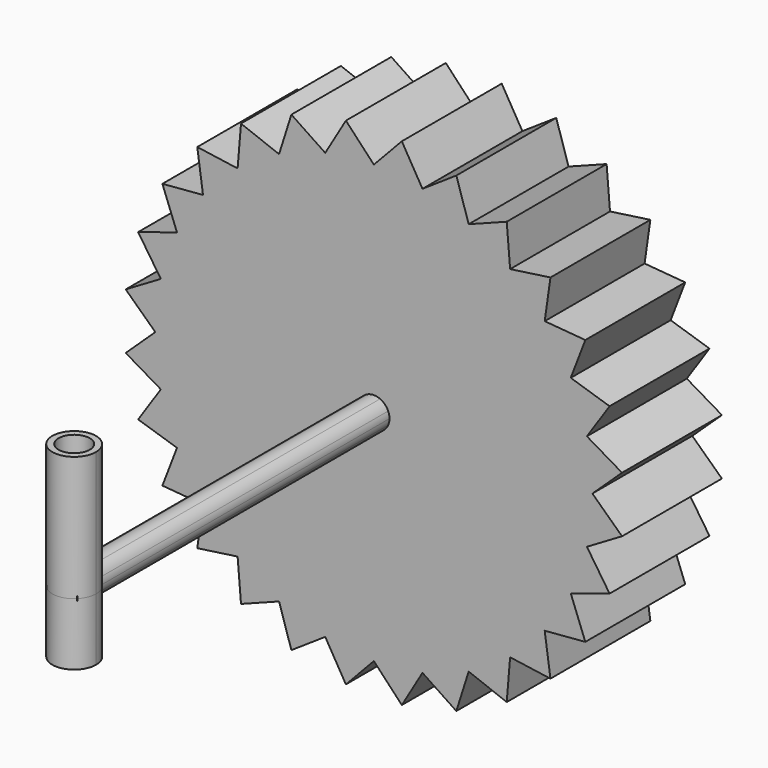
from build123d import *

# Parameters (mm, degrees)
F1_DEPTH      = 5.08
F3_W          = 0.508
F3_H          = 0.508
F4_DEPTH      = 15.875
F6_DEPTH      = 5.08
F6_DEPTH_BACK = 2.54
F7_R          = 0.635
F8_DEPTH      = 15.1771160525


with BuildPart() as f1:
    # F0 (on Front) → F1 (new body)
    with BuildSketch(Plane.XZ):
        with BuildLine():
            Line((-4.7297651602, 7.5273781311), (0, 0))
            Line((0, 0), (-3.8572264408, 8.0096132357))
            ThreePointArc((-3.8572264408, 8.0096132357), (-4.3002609064, 7.7807362208), (-4.7297651602, 7.5273781311))
        make_face()
        with BuildLine():
            Line((-5.5428243385, 6.9504818791), (0, 0))
            Line((0, 0), (-4.7297651602, 7.5273781311))
            ThreePointArc((-4.7297651602, 7.5273781311), (-5.144387823, 7.250336125), (-5.5428243385, 6.9504818791))
        make_face()
        with BuildLine():
            Line((-5.4054458974, 8.6027178642), (-5.5428243385, 6.9504818791))
            ThreePointArc((-5.5428243385, 6.9504818791), (-5.144387823, 7.250336125), (-4.7297651602, 7.5273781311))
            Line((-4.7297651602, 7.5273781311), (-5.4054458974, 8.6027178642))
        make_face()
        with BuildLine():
            Line((-5.4054458974, 8.6027178642), (-4.7297651602, 7.5273781311))
            ThreePointArc((-4.7297651602, 7.5273781311), (-4.3002609064, 7.7807362208), (-3.8572264408, 8.0096132357))
            Line((-3.8572264408, 8.0096132357), (-5.4054458974, 8.6027178642))
        make_face()
        with BuildLine():
            Line((-3.3556352695, 9.5898546359), (-3.8572264408, 8.0096132357))
            ThreePointArc((-3.8572264408, 8.0096132357), (-3.4020557137, 8.213289044), (-2.9361808608, 8.3911228064))
            Line((-2.9361808608, 8.3911228064), (-3.3556352695, 9.5898546359))
        make_face()
        with BuildLine():
            Line((-3.3556352695, 9.5898546359), (-2.9361808608, 8.3911228064))
            ThreePointArc((-2.9361808608, 8.3911228064), (-2.4610676966, 8.5425549921), (-1.9782111029, 8.6671091393))
            Line((-1.9782111029, 8.6671091393), (-3.3556352695, 9.5898546359))
        make_face()
        with BuildLine():
            Line((-2.9361808608, 8.3911228064), (0, 0))
            Line((0, 0), (-1.9782111029, 8.6671091393))
            ThreePointArc((-1.9782111029, 8.6671091393), (-2.4610676966, 8.5425549921), (-2.9361808608, 8.3911228064))
        make_face()
        with BuildLine():
            Line((-3.8572264408, 8.0096132357), (0, 0))
            Line((0, 0), (-2.9361808608, 8.3911228064))
            ThreePointArc((-2.9361808608, 8.3911228064), (-3.4020557137, 8.213289044), (-3.8572264408, 8.0096132357))
        make_face()
        with BuildLine():
            Line((-0.9953641926, 8.834101546), (0, 0))
            Line((0, 0), (0, 8.89))
            ThreePointArc((0, 8.89), (-0.4984662759, 8.8760143855), (-0.9953641926, 8.834101546))
        make_face()
        with BuildLine():
            ThreePointArc((-0.9953641926, 8.834101546), (-0.4984662759, 8.8760143855), (0, 8.89))
            Line((0, 8.89), (-1.1375590772, 10.0961160525))
            Line((-1.1375590772, 10.0961160525), (-0.9953641926, 8.834101546))
        make_face()
        with BuildLine():
            Line((-1.1375590772, 10.0961160525), (-1.9782111029, 8.6671091393))
            ThreePointArc((-1.9782111029, 8.6671091393), (-1.4891303252, 8.7643933546), (-0.9953641926, 8.834101546))
            Line((-0.9953641926, 8.834101546), (-1.1375590772, 10.0961160525))
        make_face()
        with BuildLine():
            Line((-1.9782111029, 8.6671091393), (0, 0))
            Line((0, 0), (-0.9953641926, 8.834101546))
            ThreePointArc((-0.9953641926, 8.834101546), (-1.4891303252, 8.7643933546), (-1.9782111029, 8.6671091393))
        make_face()
        with BuildLine():
            Line((-6.2861792847, 6.2861792847), (0, 0))
            Line((0, 0), (-5.5428243385, 6.9504818791))
            ThreePointArc((-5.5428243385, 6.9504818791), (-5.923821078, 6.6287588458), (-6.2861792847, 6.2861792847))
        make_face()
        with BuildLine():
            Line((-7.1842048969, 7.1842048969), (-6.2861792847, 6.2861792847))
            ThreePointArc((-6.2861792847, 6.2861792847), (-5.923821078, 6.6287588458), (-5.5428243385, 6.9504818791))
            Line((-5.5428243385, 6.9504818791), (-7.1842048969, 7.1842048969))
        make_face()
        with BuildLine():
            Line((-6.9504818791, 5.5428243385), (0, 0))
            Line((0, 0), (-6.2861792847, 6.2861792847))
            ThreePointArc((-6.2861792847, 6.2861792847), (-6.6287588458, 5.923821078), (-6.9504818791, 5.5428243385))
        make_face()
        with BuildLine():
            Line((-7.1842048969, 7.1842048969), (-6.9504818791, 5.5428243385))
            ThreePointArc((-6.9504818791, 5.5428243385), (-6.6287588458, 5.923821078), (-6.2861792847, 6.2861792847))
            Line((-6.2861792847, 6.2861792847), (-7.1842048969, 7.1842048969))
        make_face()
        with BuildLine():
            Line((-7.5273781311, 4.7297651602), (0, 0))
            Line((0, 0), (-6.9504818791, 5.5428243385))
            ThreePointArc((-6.9504818791, 5.5428243385), (-7.250336125, 5.144387823), (-7.5273781311, 4.7297651602))
        make_face()
        with BuildLine():
            Line((-8.6027178642, 5.4054458974), (-7.5273781311, 4.7297651602))
            ThreePointArc((-7.5273781311, 4.7297651602), (-7.250336125, 5.144387823), (-6.9504818791, 5.5428243385))
            Line((-6.9504818791, 5.5428243385), (-8.6027178642, 5.4054458974))
        make_face()
        with BuildLine():
            Line((-8.6027178642, 5.4054458974), (-8.0096132357, 3.8572264408))
            ThreePointArc((-8.0096132357, 3.8572264408), (-7.7807362208, 4.3002609064), (-7.5273781311, 4.7297651602))
            Line((-7.5273781311, 4.7297651602), (-8.6027178642, 5.4054458974))
        make_face()
        with BuildLine():
            Line((-8.0096132357, 3.8572264408), (0, 0))
            Line((0, 0), (-7.5273781311, 4.7297651602))
            ThreePointArc((-7.5273781311, 4.7297651602), (-7.7807362208, 4.3002609064), (-8.0096132357, 3.8572264408))
        make_face()
        with BuildLine():
            Line((-8.3911228064, 2.9361808608), (0, 0))
            Line((0, 0), (-8.0096132357, 3.8572264408))
            ThreePointArc((-8.0096132357, 3.8572264408), (-8.213289044, 3.4020557137), (-8.3911228064, 2.9361808608))
        make_face()
        with BuildLine():
            Line((-9.5898546359, 3.3556352695), (-8.3911228064, 2.9361808608))
            ThreePointArc((-8.3911228064, 2.9361808608), (-8.213289044, 3.4020557137), (-8.0096132357, 3.8572264408))
            Line((-8.0096132357, 3.8572264408), (-9.5898546359, 3.3556352695))
        make_face()
        with BuildLine():
            Line((-9.5898546359, 3.3556352695), (-8.6671091393, 1.9782111029))
            ThreePointArc((-8.6671091393, 1.9782111029), (-8.5425549921, 2.4610676966), (-8.3911228064, 2.9361808608))
            Line((-8.3911228064, 2.9361808608), (-9.5898546359, 3.3556352695))
        make_face()
        with BuildLine():
            Line((-8.6671091393, 1.9782111029), (0, 0))
            Line((0, 0), (-8.3911228064, 2.9361808608))
            ThreePointArc((-8.3911228064, 2.9361808608), (-8.5425549921, 2.4610676966), (-8.6671091393, 1.9782111029))
        make_face()
        with BuildLine():
            Line((-8.834101546, 0.9953641926), (0, 0))
            Line((0, 0), (-8.6671091393, 1.9782111029))
            ThreePointArc((-8.6671091393, 1.9782111029), (-8.7643933546, 1.4891303252), (-8.834101546, 0.9953641926))
        make_face()
        with BuildLine():
            Line((-10.0961160525, 1.1375590772), (-8.834101546, 0.9953641926))
            ThreePointArc((-8.834101546, 0.9953641926), (-8.7643933546, 1.4891303252), (-8.6671091393, 1.9782111029))
            Line((-8.6671091393, 1.9782111029), (-10.0961160525, 1.1375590772))
        make_face()
        with BuildLine():
            Line((-10.0961160525, 1.1375590772), (-8.89, 0))
            ThreePointArc((-8.89, 0), (-8.8760143855, 0.4984662759), (-8.834101546, 0.9953641926))
            Line((-8.834101546, 0.9953641926), (-10.0961160525, 1.1375590772))
        make_face()
        with BuildLine():
            Line((-8.89, 0), (0, 0))
            Line((0, 0), (-8.834101546, 0.9953641926))
            ThreePointArc((-8.834101546, 0.9953641926), (-8.8760143855, 0.4984662759), (-8.89, 0))
        make_face()
        with BuildLine():
            Line((-8.834101546, -0.9953641926), (0, 0))
            Line((0, 0), (-8.89, 0))
            ThreePointArc((-8.89, 0), (-8.8760143855, -0.4984662759), (-8.834101546, -0.9953641926))
        make_face()
        with BuildLine():
            Line((-10.0961160525, -1.1375590772), (-8.834101546, -0.9953641926))
            ThreePointArc((-8.834101546, -0.9953641926), (-8.8760143855, -0.4984662759), (-8.89, 0))
            Line((-8.89, 0), (-10.0961160525, -1.1375590772))
        make_face()
        with BuildLine():
            Line((-10.0961160525, -1.1375590772), (-8.6671091393, -1.9782111029))
            ThreePointArc((-8.6671091393, -1.9782111029), (-8.7643933546, -1.4891303252), (-8.834101546, -0.9953641926))
            Line((-8.834101546, -0.9953641926), (-10.0961160525, -1.1375590772))
        make_face()
        with BuildLine():
            Line((-8.6671091393, -1.9782111029), (0, 0))
            Line((0, 0), (-8.834101546, -0.9953641926))
            ThreePointArc((-8.834101546, -0.9953641926), (-8.7643933546, -1.4891303252), (-8.6671091393, -1.9782111029))
        make_face()
        with BuildLine():
            Line((-8.3911228064, -2.9361808608), (0, 0))
            Line((0, 0), (-8.6671091393, -1.9782111029))
            ThreePointArc((-8.6671091393, -1.9782111029), (-8.5425549921, -2.4610676966), (-8.3911228064, -2.9361808608))
        make_face()
        with BuildLine():
            Line((-9.5898546359, -3.3556352695), (-8.3911228064, -2.9361808608))
            ThreePointArc((-8.3911228064, -2.9361808608), (-8.5425549921, -2.4610676966), (-8.6671091393, -1.9782111029))
            Line((-8.6671091393, -1.9782111029), (-9.5898546359, -3.3556352695))
        make_face()
        with BuildLine():
            Line((-9.5898546359, -3.3556352695), (-8.0096132357, -3.8572264408))
            ThreePointArc((-8.0096132357, -3.8572264408), (-8.213289044, -3.4020557137), (-8.3911228064, -2.9361808608))
            Line((-8.3911228064, -2.9361808608), (-9.5898546359, -3.3556352695))
        make_face()
        with BuildLine():
            Line((-8.0096132357, -3.8572264408), (0, 0))
            Line((0, 0), (-8.3911228064, -2.9361808608))
            ThreePointArc((-8.3911228064, -2.9361808608), (-8.213289044, -3.4020557137), (-8.0096132357, -3.8572264408))
        make_face()
        with BuildLine():
            Line((-7.5273781311, -4.7297651602), (0, 0))
            Line((0, 0), (-8.0096132357, -3.8572264408))
            ThreePointArc((-8.0096132357, -3.8572264408), (-7.7807362208, -4.3002609064), (-7.5273781311, -4.7297651602))
        make_face()
        with BuildLine():
            Line((-8.6027178642, -5.4054458974), (-7.5273781311, -4.7297651602))
            ThreePointArc((-7.5273781311, -4.7297651602), (-7.7807362208, -4.3002609064), (-8.0096132357, -3.8572264408))
            Line((-8.0096132357, -3.8572264408), (-8.6027178642, -5.4054458974))
        make_face()
        with BuildLine():
            Line((-8.6027178642, -5.4054458974), (-6.9504818791, -5.5428243385))
            ThreePointArc((-6.9504818791, -5.5428243385), (-7.250336125, -5.144387823), (-7.5273781311, -4.7297651602))
            Line((-7.5273781311, -4.7297651602), (-8.6027178642, -5.4054458974))
        make_face()
        with BuildLine():
            Line((-6.9504818791, -5.5428243385), (0, 0))
            Line((0, 0), (-7.5273781311, -4.7297651602))
            ThreePointArc((-7.5273781311, -4.7297651602), (-7.250336125, -5.144387823), (-6.9504818791, -5.5428243385))
        make_face()
        with BuildLine():
            Line((-6.2861792847, -6.2861792847), (0, 0))
            Line((0, 0), (-6.9504818791, -5.5428243385))
            ThreePointArc((-6.9504818791, -5.5428243385), (-6.6287588458, -5.923821078), (-6.2861792847, -6.2861792847))
        make_face()
        with BuildLine():
            Line((-5.5428243385, -6.9504818791), (0, 0))
            Line((0, 0), (-6.2861792847, -6.2861792847))
            ThreePointArc((-6.2861792847, -6.2861792847), (-5.923821078, -6.6287588458), (-5.5428243385, -6.9504818791))
        make_face()
        with BuildLine():
            Line((-4.7297651602, -7.5273781311), (0, 0))
            Line((0, 0), (-5.5428243385, -6.9504818791))
            ThreePointArc((-5.5428243385, -6.9504818791), (-5.144387823, -7.250336125), (-4.7297651602, -7.5273781311))
        make_face()
        with BuildLine():
            Line((-7.1842048969, -7.1842048969), (-6.2861792847, -6.2861792847))
            ThreePointArc((-6.2861792847, -6.2861792847), (-6.6287588458, -5.923821078), (-6.9504818791, -5.5428243385))
            Line((-6.9504818791, -5.5428243385), (-7.1842048969, -7.1842048969))
        make_face()
        with BuildLine():
            Line((-7.1842048969, -7.1842048969), (-5.5428243385, -6.9504818791))
            ThreePointArc((-5.5428243385, -6.9504818791), (-5.923821078, -6.6287588458), (-6.2861792847, -6.2861792847))
            Line((-6.2861792847, -6.2861792847), (-7.1842048969, -7.1842048969))
        make_face()
        with BuildLine():
            Line((-5.4054458974, -8.6027178642), (-4.7297651602, -7.5273781311))
            ThreePointArc((-4.7297651602, -7.5273781311), (-5.144387823, -7.250336125), (-5.5428243385, -6.9504818791))
            Line((-5.5428243385, -6.9504818791), (-5.4054458974, -8.6027178642))
        make_face()
        with BuildLine():
            Line((-5.4054458974, -8.6027178642), (-3.8572264408, -8.0096132357))
            ThreePointArc((-3.8572264408, -8.0096132357), (-4.3002609064, -7.7807362208), (-4.7297651602, -7.5273781311))
            Line((-4.7297651602, -7.5273781311), (-5.4054458974, -8.6027178642))
        make_face()
        with BuildLine():
            Line((-2.9361808608, -8.3911228064), (0, 0))
            Line((0, 0), (-3.8572264408, -8.0096132357))
            ThreePointArc((-3.8572264408, -8.0096132357), (-3.4020557137, -8.213289044), (-2.9361808608, -8.3911228064))
        make_face()
        with BuildLine():
            Line((-3.3556352695, -9.5898546359), (-2.9361808608, -8.3911228064))
            ThreePointArc((-2.9361808608, -8.3911228064), (-3.4020557137, -8.213289044), (-3.8572264408, -8.0096132357))
            Line((-3.8572264408, -8.0096132357), (-3.3556352695, -9.5898546359))
        make_face()
        with BuildLine():
            Line((-3.3556352695, -9.5898546359), (-1.9782111029, -8.6671091393))
            ThreePointArc((-1.9782111029, -8.6671091393), (-2.4610676966, -8.5425549921), (-2.9361808608, -8.3911228064))
            Line((-2.9361808608, -8.3911228064), (-3.3556352695, -9.5898546359))
        make_face()
        with BuildLine():
            Line((-1.9782111029, -8.6671091393), (0, 0))
            Line((0, 0), (-2.9361808608, -8.3911228064))
            ThreePointArc((-2.9361808608, -8.3911228064), (-2.4610676966, -8.5425549921), (-1.9782111029, -8.6671091393))
        make_face()
        with BuildLine():
            Line((-0.9953641926, -8.834101546), (0, 0))
            Line((0, 0), (-1.9782111029, -8.6671091393))
            ThreePointArc((-1.9782111029, -8.6671091393), (-1.4891303252, -8.7643933546), (-0.9953641926, -8.834101546))
        make_face()
        with BuildLine():
            Line((-1.1375590772, -10.0961160525), (0, -8.89))
            ThreePointArc((0, -8.89), (-0.4984662759, -8.8760143855), (-0.9953641926, -8.834101546))
            Line((-0.9953641926, -8.834101546), (-1.1375590772, -10.0961160525))
        make_face()
        with BuildLine():
            ThreePointArc((-0.9953641926, -8.834101546), (-1.4891303252, -8.7643933546), (-1.9782111029, -8.6671091393))
            Line((-1.9782111029, -8.6671091393), (-1.1375590772, -10.0961160525))
            Line((-1.1375590772, -10.0961160525), (-0.9953641926, -8.834101546))
        make_face()
        with BuildLine():
            Line((0, -8.89), (0, 0))
            Line((0, 0), (-0.9953641926, -8.834101546))
            ThreePointArc((-0.9953641926, -8.834101546), (-0.4984662759, -8.8760143855), (0, -8.89))
        make_face()
        with BuildLine():
            Line((-3.8572264408, -8.0096132357), (0, 0))
            Line((0, 0), (-4.7297651602, -7.5273781311))
            ThreePointArc((-4.7297651602, -7.5273781311), (-4.3002609064, -7.7807362208), (-3.8572264408, -8.0096132357))
        make_face()
    extrude(amount=F1_DEPTH)

    # F2: F1 across plane


with BuildPart() as f1_1:
    add(f1.part)
    add(f1.part.mirror(Plane.YZ))

    # F3 (on face) → F4 (join)
    with BuildSketch(Plane.XZ.offset(5.08)):
        with BuildLine():
            Line((0.254, 0.254), (0.254, 0.5819871133))
            ThreePointArc((0.254, 0.5819871133), (0, 0.635), (-0.254, 0.5819871133))
            Line((-0.254, 0.5819871133), (-0.254, 0.254))
            Line((-0.254, 0.254), (0.254, 0.254))
        make_face()
        with BuildLine():
            Line((-0.254, -0.254), (-0.254, 0.254))
            Line((-0.254, 0.254), (-0.5819871133, 0.254))
            ThreePointArc((-0.5819871133, 0.254), (-0.635, 0), (-0.5819871133, -0.254))
            Line((-0.5819871133, -0.254), (-0.254, -0.254))
        make_face()
        Rectangle(F3_W, F3_H)
        with BuildLine():
            ThreePointArc((0.5819871133, -0.254), (0.6216055087, -0.1297366237), (0.635, 0))
            ThreePointArc((0.635, 0), (0.6216055087, 0.1297366237), (0.5819871133, 0.254))
            Line((0.5819871133, 0.254), (0.254, 0.254))
            Line((0.254, 0.254), (0.254, -0.254))
            Line((0.254, -0.254), (0.5819871133, -0.254))
        make_face()
        with BuildLine():
            ThreePointArc((-0.254, -0.5819871133), (0, -0.635), (0.254, -0.5819871133))
            Line((0.254, -0.5819871133), (0.254, -0.254))
            Line((0.254, -0.254), (-0.254, -0.254))
            Line((-0.254, -0.254), (-0.254, -0.5819871133))
        make_face()
        with BuildLine():
            Line((-0.254, 0.254), (-0.254, 0.5819871133))
            ThreePointArc((-0.254, 0.5819871133), (-0.4490128061, 0.4490128061), (-0.5819871133, 0.254))
            Line((-0.5819871133, 0.254), (-0.254, 0.254))
        make_face()
        with BuildLine():
            Line((0.254, 0.254), (0.5819871133, 0.254))
            ThreePointArc((0.5819871133, 0.254), (0.4490128061, 0.4490128061), (0.254, 0.5819871133))
            Line((0.254, 0.5819871133), (0.254, 0.254))
        make_face()
        with BuildLine():
            ThreePointArc((0.254, -0.5819871133), (0.4490128061, -0.4490128061), (0.5819871133, -0.254))
            Line((0.5819871133, -0.254), (0.254, -0.254))
            Line((0.254, -0.254), (0.254, -0.5819871133))
        make_face()
        with BuildLine():
            ThreePointArc((-0.5819871133, -0.254), (-0.4490128061, -0.4490128061), (-0.254, -0.5819871133))
            Line((-0.254, -0.5819871133), (-0.254, -0.254))
            Line((-0.254, -0.254), (-0.5819871133, -0.254))
        make_face()
    extrude(amount=F4_DEPTH)

    # F5 (on Top) → F6 (join, two sides)
    with BuildSketch(Plane.XY) as f6_sk:
        with BuildLine():
            ThreePointArc((0, -19.431), (-0.6286179285, -20.9486179285), (0.889, -20.32))
            ThreePointArc((0.889, -20.32), (0.6286179285, -19.6913820715), (0, -19.431))
        make_face()
    extrude(amount=F6_DEPTH)
    extrude(f6_sk.sketch, amount=-F6_DEPTH_BACK)

    # F7 (on face) → F8 (cut, through all)
    with BuildSketch(Plane.XY.offset(5.08)):
        with Locations((0, -20.32)):
            Circle(F7_R)
    extrude(amount=-F8_DEPTH, mode=Mode.SUBTRACT)


solid = f1_1.part
